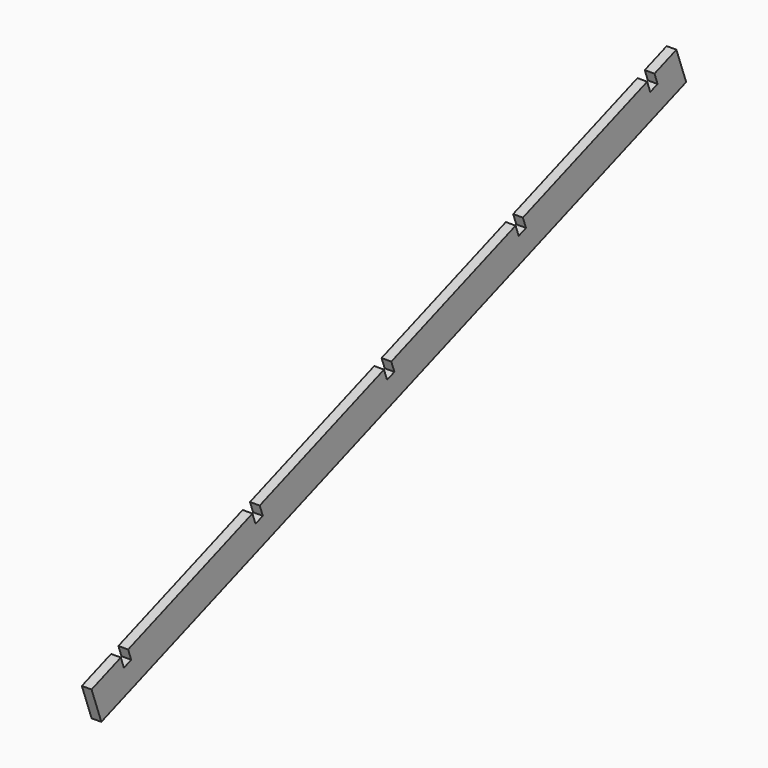
from build123d import *

# Parameters (mm, degrees)
BOX012_W               = 38.1
BOX012_H               = 3048
BOX012_DEPTH           = 139.7
BOX012_ROLL_ANGLE      = 20
SKETCH031_W            = 38.1
SKETCH031_H            = 44.45
POCKET022_DEPTH        = 38.1010000019
LINEARPATTERN003_COUNT = 5
LINEARPATTERN003_PITCH = 685.8


with BuildPart() as linearpattern003:
    # Box012 → Box012 (new body)
    with BuildSketch(Plane.XY):
        with Locations((19.05, 1524)):
            Rectangle(BOX012_W, BOX012_H)
    extrude(amount=BOX012_DEPTH)


with BuildPart() as linearpattern003_1:
    # Box012 roll: moved
    add(linearpattern003.part.rotate(Axis((0, 0, 0), (1, 0, 0)), BOX012_ROLL_ANGLE))


with BuildPart() as linearpattern003_2:
    # Box012 placement: moved
    add(linearpattern003_1.part.moved(Location((0, -431.8, 1376.68))))

    # Sketch031 → Pocket022 (cut, through all)
    with BuildSketch(Plane(origin=(0, -431.8, 1376.68), x_dir=(0, -0.9396926208, -0.3420201433), z_dir=(-1, 0, 0))):
        with Locations((-171.45, 117.475)):
            Rectangle(SKETCH031_W, SKETCH031_H)
    pocket022 = extrude(amount=-POCKET022_DEPTH, mode=Mode.SUBTRACT)

    # LinearPattern003: Pocket022 ×5
    with Locations(*[Vector(0, 0.9396926208, 0.3420201433) * (i * LINEARPATTERN003_PITCH) for i in range(1, LINEARPATTERN003_COUNT)]):
        add(pocket022, mode=Mode.SUBTRACT)


with BuildPart() as part_mirroring009:
    # Part__Mirroring009: instance of LinearPattern003
    add(linearpattern003_2.part.mirror(Plane(origin=(762, 0, 0), x_dir=(0, -1, 0), z_dir=(1, 0, 0))))


solid = part_mirroring009.part
